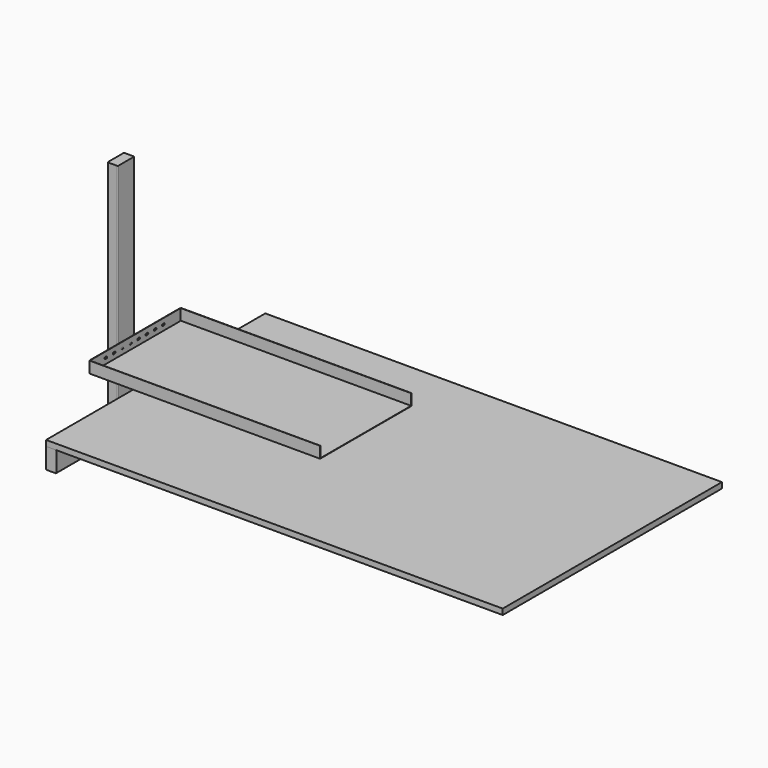
from build123d import *

# Parameters (mm, degrees)
F0_W      = 2000
F0_H      = 1200
F1_DEPTH  = 25
F3_DEPTH  = 1200
F6_W      = 100
F6_H      = 84
F7_DEPTH  = 10
F9_DEPTH  = 1.5
F10_DEPTH = 1010
F12_DEPTH = 1000


with BuildPart() as f1:
    # F0 (on Top) → F1 (new body)
    with BuildSketch(Plane.XY):
        Rectangle(F0_W, F0_H)
    extrude(amount=-F1_DEPTH)


with BuildPart() as f3:
    # F2 (on face) → F3 (new body)
    with BuildSketch(Plane.XZ.offset(600)):
        with BuildLine():
            Line((-958, -25), (-997, -25))
            ThreePointArc((-997, -25), (-999.12132, -25.87868), (-1000, -28))
            Line((-1000, -28), (-1000, -112))
            ThreePointArc((-1000, -112), (-999.12132, -114.12132), (-997, -115))
            Line((-997, -115), (-958, -115))
            ThreePointArc((-958, -115), (-955.87868, -114.12132), (-955, -112))
            Line((-955, -112), (-955, -28))
            ThreePointArc((-955, -28), (-955.87868, -25.87868), (-958, -25))
        make_face()
    extrude(amount=-F3_DEPTH)

    # F6 (on face) → F7 (join)
    with BuildSketch(Plane(origin=(-1000, 0, 0), x_dir=(0, -1, 0), z_dir=(-1, 0, 0))):
        with Locations((150, -70)):
            Rectangle(F6_W, F6_H)
    extrude(amount=F7_DEPTH)


with BuildPart() as f9:
    # F8 (on face) → F9 (new body)
    with BuildSketch(Plane(origin=(-1010, 0, 0), x_dir=(0, -1, 0), z_dir=(-1, 0, 0))):
        Polygon((-145.235375, 152.426902), (346.03707, 152.426902), (346.03707, 201.522042), (-145.235375, 201.522042), (-145.235375, 166.426902), align=None)
        with BuildLine():
            ThreePointArc((-56, 172.272042), (-60.25, 176.522042), (-56, 180.772042))
            Line((-56, 180.772042), (-50, 180.772042))
            ThreePointArc((-50, 180.772042), (-45.75, 176.522042), (-50, 172.272042))
            Line((-50, 172.272042), (-56, 172.272042))
        make_face(mode=Mode.SUBTRACT)
        with BuildLine():
            ThreePointArc((-5, 180.772042), (-0.75, 176.522042), (-5, 172.272042))
            Line((-5, 172.272042), (-11, 172.272042))
            ThreePointArc((-11, 172.272042), (-15.25, 176.522042), (-11, 180.772042))
            Line((-11, 180.772042), (-5, 180.772042))
        make_face(mode=Mode.SUBTRACT)
        with BuildLine():
            ThreePointArc((40, 180.772042), (44.25, 176.522042), (40, 172.272042))
            Line((40, 172.272042), (34, 172.272042))
            ThreePointArc((34, 172.272042), (29.75, 176.522042), (34, 180.772042))
            Line((34, 180.772042), (40, 180.772042))
        make_face(mode=Mode.SUBTRACT)
        with BuildLine():
            ThreePointArc((85, 180.772042), (89.25, 176.522042), (85, 172.272042))
            Line((85, 172.272042), (79, 172.272042))
            ThreePointArc((79, 172.272042), (74.75, 176.522042), (79, 180.772042))
            Line((79, 180.772042), (85, 180.772042))
        make_face(mode=Mode.SUBTRACT)
        with BuildLine():
            ThreePointArc((130, 180.772042), (134.25, 176.522042), (130, 172.272042))
            Line((130, 172.272042), (124, 172.272042))
            ThreePointArc((124, 172.272042), (119.75, 176.522042), (124, 180.772042))
            Line((124, 180.772042), (130, 180.772042))
        make_face(mode=Mode.SUBTRACT)
        with BuildLine():
            ThreePointArc((175, 180.772042), (179.25, 176.522042), (175, 172.272042))
            Line((175, 172.272042), (169, 172.272042))
            ThreePointArc((169, 172.272042), (164.75, 176.522042), (169, 180.772042))
            Line((169, 180.772042), (175, 180.772042))
        make_face(mode=Mode.SUBTRACT)
        with BuildLine():
            ThreePointArc((220, 180.772042), (224.25, 176.522042), (220, 172.272042))
            Line((220, 172.272042), (214, 172.272042))
            ThreePointArc((214, 172.272042), (209.75, 176.522042), (214, 180.772042))
            Line((214, 180.772042), (220, 180.772042))
        make_face(mode=Mode.SUBTRACT)
        with BuildLine():
            ThreePointArc((265, 180.772042), (269.25, 176.522042), (265, 172.272042))
            Line((265, 172.272042), (259, 172.272042))
            ThreePointArc((259, 172.272042), (254.75, 176.522042), (259, 180.772042))
            Line((259, 180.772042), (265, 180.772042))
        make_face(mode=Mode.SUBTRACT)
        Polygon((-145.235375, 152.426902), (346.03707, 152.426902), (346.03707, 201.522042), (-145.235375, 201.522042), (-145.235375, 166.426902), align=None)
        with BuildLine():
            ThreePointArc((-56, 172.272042), (-60.25, 176.522042), (-56, 180.772042))
            Line((-56, 180.772042), (-50, 180.772042))
            ThreePointArc((-50, 180.772042), (-45.75, 176.522042), (-50, 172.272042))
            Line((-50, 172.272042), (-56, 172.272042))
        make_face(mode=Mode.SUBTRACT)
        with BuildLine():
            ThreePointArc((-5, 180.772042), (-0.75, 176.522042), (-5, 172.272042))
            Line((-5, 172.272042), (-11, 172.272042))
            ThreePointArc((-11, 172.272042), (-15.25, 176.522042), (-11, 180.772042))
            Line((-11, 180.772042), (-5, 180.772042))
        make_face(mode=Mode.SUBTRACT)
        with BuildLine():
            ThreePointArc((40, 180.772042), (44.25, 176.522042), (40, 172.272042))
            Line((40, 172.272042), (34, 172.272042))
            ThreePointArc((34, 172.272042), (29.75, 176.522042), (34, 180.772042))
            Line((34, 180.772042), (40, 180.772042))
        make_face(mode=Mode.SUBTRACT)
        with BuildLine():
            ThreePointArc((85, 180.772042), (89.25, 176.522042), (85, 172.272042))
            Line((85, 172.272042), (79, 172.272042))
            ThreePointArc((79, 172.272042), (74.75, 176.522042), (79, 180.772042))
            Line((79, 180.772042), (85, 180.772042))
        make_face(mode=Mode.SUBTRACT)
        with BuildLine():
            ThreePointArc((130, 180.772042), (134.25, 176.522042), (130, 172.272042))
            Line((130, 172.272042), (124, 172.272042))
            ThreePointArc((124, 172.272042), (119.75, 176.522042), (124, 180.772042))
            Line((124, 180.772042), (130, 180.772042))
        make_face(mode=Mode.SUBTRACT)
        with BuildLine():
            ThreePointArc((175, 180.772042), (179.25, 176.522042), (175, 172.272042))
            Line((175, 172.272042), (169, 172.272042))
            ThreePointArc((169, 172.272042), (164.75, 176.522042), (169, 180.772042))
            Line((169, 180.772042), (175, 180.772042))
        make_face(mode=Mode.SUBTRACT)
        with BuildLine():
            ThreePointArc((220, 180.772042), (224.25, 176.522042), (220, 172.272042))
            Line((220, 172.272042), (214, 172.272042))
            ThreePointArc((214, 172.272042), (209.75, 176.522042), (214, 180.772042))
            Line((214, 180.772042), (220, 180.772042))
        make_face(mode=Mode.SUBTRACT)
        with BuildLine():
            ThreePointArc((265, 180.772042), (269.25, 176.522042), (265, 172.272042))
            Line((265, 172.272042), (259, 172.272042))
            ThreePointArc((259, 172.272042), (254.75, 176.522042), (259, 180.772042))
            Line((259, 180.772042), (265, 180.772042))
        make_face(mode=Mode.SUBTRACT)
        Polygon((-145.235375, 152.426902), (346.03707, 152.426902), (346.03707, 201.522042), (-145.235375, 201.522042), (-145.235375, 166.426902), align=None)
        with BuildLine():
            ThreePointArc((-56, 172.272042), (-60.25, 176.522042), (-56, 180.772042))
            Line((-56, 180.772042), (-50, 180.772042))
            ThreePointArc((-50, 180.772042), (-45.75, 176.522042), (-50, 172.272042))
            Line((-50, 172.272042), (-56, 172.272042))
        make_face(mode=Mode.SUBTRACT)
        with BuildLine():
            ThreePointArc((-5, 180.772042), (-0.75, 176.522042), (-5, 172.272042))
            Line((-5, 172.272042), (-11, 172.272042))
            ThreePointArc((-11, 172.272042), (-15.25, 176.522042), (-11, 180.772042))
            Line((-11, 180.772042), (-5, 180.772042))
        make_face(mode=Mode.SUBTRACT)
        with BuildLine():
            ThreePointArc((40, 180.772042), (44.25, 176.522042), (40, 172.272042))
            Line((40, 172.272042), (34, 172.272042))
            ThreePointArc((34, 172.272042), (29.75, 176.522042), (34, 180.772042))
            Line((34, 180.772042), (40, 180.772042))
        make_face(mode=Mode.SUBTRACT)
        with BuildLine():
            ThreePointArc((85, 180.772042), (89.25, 176.522042), (85, 172.272042))
            Line((85, 172.272042), (79, 172.272042))
            ThreePointArc((79, 172.272042), (74.75, 176.522042), (79, 180.772042))
            Line((79, 180.772042), (85, 180.772042))
        make_face(mode=Mode.SUBTRACT)
        with BuildLine():
            ThreePointArc((130, 180.772042), (134.25, 176.522042), (130, 172.272042))
            Line((130, 172.272042), (124, 172.272042))
            ThreePointArc((124, 172.272042), (119.75, 176.522042), (124, 180.772042))
            Line((124, 180.772042), (130, 180.772042))
        make_face(mode=Mode.SUBTRACT)
        with BuildLine():
            ThreePointArc((175, 180.772042), (179.25, 176.522042), (175, 172.272042))
            Line((175, 172.272042), (169, 172.272042))
            ThreePointArc((169, 172.272042), (164.75, 176.522042), (169, 180.772042))
            Line((169, 180.772042), (175, 180.772042))
        make_face(mode=Mode.SUBTRACT)
        with BuildLine():
            ThreePointArc((220, 180.772042), (224.25, 176.522042), (220, 172.272042))
            Line((220, 172.272042), (214, 172.272042))
            ThreePointArc((214, 172.272042), (209.75, 176.522042), (214, 180.772042))
            Line((214, 180.772042), (220, 180.772042))
        make_face(mode=Mode.SUBTRACT)
        with BuildLine():
            ThreePointArc((265, 180.772042), (269.25, 176.522042), (265, 172.272042))
            Line((265, 172.272042), (259, 172.272042))
            ThreePointArc((259, 172.272042), (254.75, 176.522042), (259, 180.772042))
            Line((259, 180.772042), (265, 180.772042))
        make_face(mode=Mode.SUBTRACT)
    extrude(amount=-F9_DEPTH)


with BuildPart() as f10:
    # F8 (on face) → F10 (new body, through all)
    with BuildSketch(Plane(origin=(-1010, 0, 0), x_dir=(0, -1, 0), z_dir=(-1, 0, 0))):
        Polygon((-150, 150.926902), (350, 150.926902), (350, 200.926902), (348.5, 200.617183), (348.5, 152.426902), (346.03707, 152.426902), (-145.235375, 152.426902), (-148.5, 152.426902), (-148.5, 200.932626), (-150, 200.926902), align=None)
        Polygon((-150, 150.926902), (350, 150.926902), (350, 200.926902), (348.5, 200.617183), (348.5, 152.426902), (346.03707, 152.426902), (-145.235375, 152.426902), (-148.5, 152.426902), (-148.5, 200.932626), (-150, 200.926902), align=None)
        Polygon((-150, 150.926902), (350, 150.926902), (350, 200.926902), (348.5, 200.617183), (348.5, 152.426902), (346.03707, 152.426902), (-145.235375, 152.426902), (-148.5, 152.426902), (-148.5, 200.932626), (-150, 200.926902), align=None)
    extrude(amount=-F10_DEPTH)


with BuildPart() as f12:
    # F11 (on face) → F12 (new body)
    with BuildSketch(Plane(origin=(0, 0, -112), x_dir=(1, 0, 0), z_dir=(0, 0, -1))):
        with BuildLine():
            ThreePointArc((-1010, 192), (-1010.87868, 194.12132), (-1013, 195))
            Line((-1013, 195), (-1052, 195))
            ThreePointArc((-1052, 195), (-1054.12132, 194.12132), (-1055, 192))
            Line((-1055, 192), (-1055, 108))
            ThreePointArc((-1055, 108), (-1054.12132, 105.87868), (-1052, 105))
            Line((-1052, 105), (-1013, 105))
            ThreePointArc((-1013, 105), (-1010.87868, 105.87868), (-1010, 108))
            Line((-1010, 108), (-1010, 192))
        make_face()
    extrude(amount=-F12_DEPTH)


solid = Compound([f1.part, f3.part, f9.part, f10.part, f12.part])
